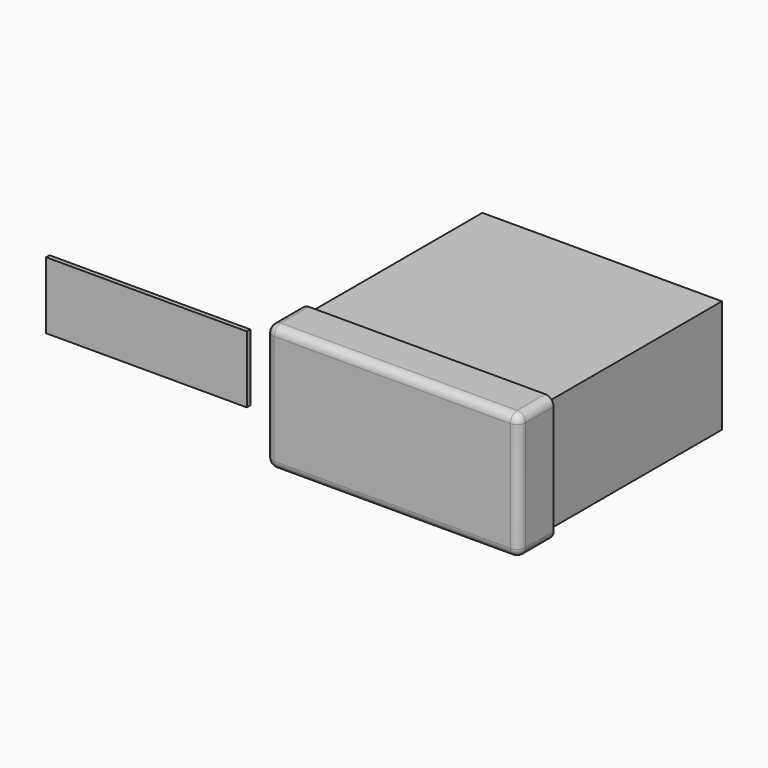
from build123d import *

# Parameters (mm, degrees)
F1_DEPTH = 16.51
F2_W     = 90.932
F2_H     = 42.926
F3_DEPTH = 83.058
F4_W     = 76.2
F4_H     = 25.4
F5_DEPTH = 1.651
F6_R     = 3.175


with BuildPart() as f1:
    # F0 (on Front) → F1 (new body)
    with BuildSketch(Plane.XZ):
        with BuildLine():
            Line((44.831, 24.003), (-44.831, 24.003))
            ThreePointArc((-44.831, 24.003), (-47.0760640303, 23.0730640303), (-48.006, 20.828))
            Line((-48.006, 20.828), (-48.006, -20.828))
            ThreePointArc((-48.006, -20.828), (-47.0760640303, -23.0730640303), (-44.831, -24.003))
            Line((-44.831, -24.003), (44.831, -24.003))
            ThreePointArc((44.831, -24.003), (47.0760640303, -23.0730640303), (48.006, -20.828))
            Line((48.006, -20.828), (48.006, 20.828))
            ThreePointArc((48.006, 20.828), (47.0760640303, 23.0730640303), (44.831, 24.003))
        make_face()
    extrude(amount=F1_DEPTH)

    # F2 (on face) → F3 (join)
    with BuildSketch(Plane(origin=(0, 0, 0), x_dir=(-1, 0, 0), z_dir=(0, 1, 0))):
        Rectangle(F2_W, F2_H)
    extrude(amount=F3_DEPTH)

    # F6
    f6_edges = [f1.edges().sort_by_distance(p)[0] for p in [
        (0, -16.51, -24.003),
    ]]
    fillet(f6_edges, radius=F6_R)


with BuildPart() as f5:
    # F4 (on Front) → F5 (new body)
    with BuildSketch(Plane.XZ):
        with Locations((-105.2142274618, -3.475756231)):
            Rectangle(F4_W, F4_H)
    extrude(amount=F5_DEPTH)


solid = Compound([f1.part, f5.part])
